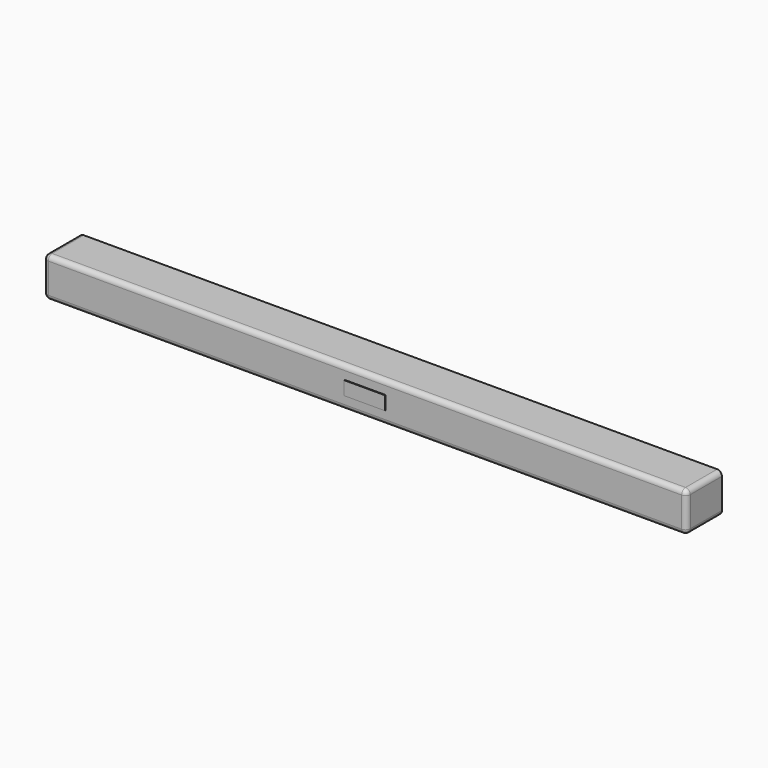
from build123d import *

# Parameters (mm, degrees)
F0_W     = 943
F0_H     = 58
F1_DEPTH = 65
F2_R     = 7
F3_W     = 60
F3_H     = 20
F4_DEPTH = 1


with BuildPart() as f1:
    # F0 (on Front) → F1 (new body)
    with BuildSketch(Plane.XZ):
        with Locations((0, -29)):
            Rectangle(F0_W, F0_H)
    extrude(amount=F1_DEPTH)

    # F2
    f2_edges = [f1.edges().sort_by_distance(p)[0] for p in [
        (0, -65, 0),
        (471.5, -32.5, 0),
        (471.5, -65, -29),
        (471.5, -32.5, -58),
        (0, -65, -58),
        (-471.5, -32.5, 0),
        (-471.5, -32.5, -58),
        (-471.5, -65, -29),
    ]]
    fillet(f2_edges, radius=F2_R)

    # F3 (on face) → F4 (join)
    with BuildSketch(Plane.XZ.offset(65)):
        with Locations((0, -29)):
            Rectangle(F3_W, F3_H)
    extrude(amount=F4_DEPTH)


solid = f1.part
